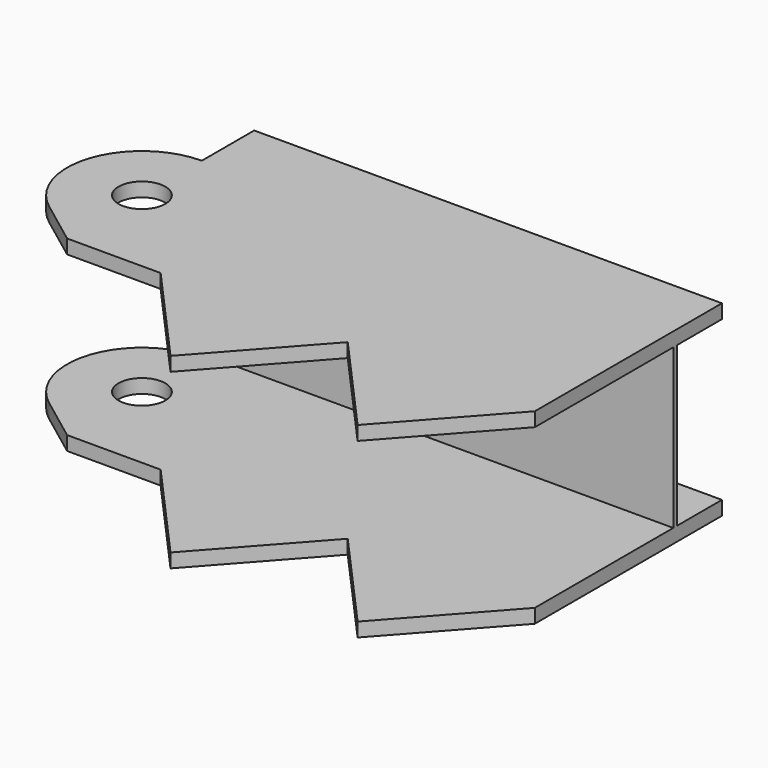
from build123d import *

# Parameters (mm, degrees)
F0_R      = 5
F1_DEPTH  = 40
F5_W      = 100
F5_H      = 3
F6_DEPTH  = 28
F7_W      = 100
F7_H      = 3
F8_DEPTH  = 10
F7_H_2    = 40
F13_DEPTH = 116.001
F14_W     = 100
F14_H     = 3
F15_DEPTH = 10
F18_DEPTH = 40.001
F19_SIZE  = 2
F20_SIZE  = 2
F21_W     = 67.4691606036
F21_H     = 7
F22_DEPTH = 116.001


with BuildPart() as f1:
    # F0 (on Top) → F1 (new body)
    with BuildSketch(Plane.XY):
        with BuildLine():
            Line((21.777506699, 52.6698508731), (21.777506699, 56.6698508731))
            Line((21.777506699, 56.6698508731), (-78.222493301, 56.6698508731))
            Line((-78.222493301, 56.6698508731), (-78.222493301, 16.6698508731))
            Line((-78.222493301, 16.6698508731), (-58.222493301, -5.6908289019))
            Line((-58.222493301, -5.6908289019), (-38.222493301, 16.6698508731))
            Line((-38.222493301, 16.6698508731), (-18.222493301, -5.6908289019))
            Line((-18.222493301, -5.6908289019), (1.777506699, 16.6698508731))
            Line((1.777506699, 16.6698508731), (21.777506699, 16.6698508731))
            Line((21.777506699, 16.6698508731), (31.377506699, 23.8698508731))
            ThreePointArc((31.377506699, 23.8698508731), (36.9564394679, 41.7294951294), (21.777506699, 52.6698508731))
        make_face()
        with Locations((21.777506699, 36.6698508731)):
            Circle(F0_R, mode=Mode.SUBTRACT)
    extrude(amount=F1_DEPTH)


with BuildPart() as f2_1:
    # F2: copy of F1
    add(f1.part.moved(Location((0, 0, 28))))


with BuildPart() as f4_1:
    # F4: copy of F1
    add(f1.part.moved(Location((0, 0, 34))))


with BuildPart() as f6:
    # F5 (on face) → F6 (new body)
    with BuildSketch(Plane.XY.offset(40)):
        with Locations((-28.222493301, 55.1698508731)):
            Rectangle(F5_W, F5_H)
    extrude(amount=F6_DEPTH)


with BuildPart() as f8:
    # F7 (on face) → F8 (new body)
    with BuildSketch(Plane(origin=(0, 56.6698508731, 0), x_dir=(-1, 0, 0), z_dir=(0, 1, 0))):
        with Locations((28.222493301, 69.5)):
            Rectangle(F7_W, F7_H)
    extrude(amount=F8_DEPTH)


with BuildPart() as f8b:
    # F7 (on face) → F8, piece 2 (new body)
    with BuildSketch(Plane(origin=(0, 56.6698508731, 0), x_dir=(-1, 0, 0), z_dir=(0, 1, 0))):
        with Locations((28.222493301, 20)):
            Rectangle(F7_W, F7_H_2)
    extrude(amount=F8_DEPTH)


with BuildPart() as f1_1:
    add(f1.part)

    # F12 (on face) → F13 (cut, through all)
    with BuildSketch(Plane(origin=(-78.222493301, 0, 0), x_dir=(0, -1, 0), z_dir=(-1, 0, 0))):
        Polygon((15.5293103307, 30), (-53.6698508731, 30), (-53.6698508731, 3), (13.7041052803, 3), align=None)
    extrude(amount=-F13_DEPTH, mode=Mode.SUBTRACT)

    # F14 (on face) → F15 (join)
    with BuildSketch(Plane(origin=(0, 56.6698508731, 0), x_dir=(-1, 0, 0), z_dir=(0, 1, 0))):
        with Locations((28.222493301, 1.5)):
            Rectangle(F14_W, F14_H)
        with Locations((28.222493301, 38.5)):
            Rectangle(F14_W, F14_H)
    extrude(amount=F15_DEPTH)

    # F16: F1 across face


with BuildPart() as f1_2:
    add(f1_1.part)
    add(f1_1.part.mirror(Plane(origin=(-78.222493301, 41.2061594964, 25.2897125567), x_dir=(0, -1, 0), z_dir=(-1, 0, 0))))

    # F17 (on face) → F18 (cut, through all)
    with BuildSketch(Plane.XY.offset(40)):
        Polygon((-78.222493301, 86.7001339793), (-78.222493301, 16.6698508731), (-78.222493301, -27.7220606804), (68.2113543153, -27.7220606804), (68.2113543153, 86.7001339793), align=None)
    extrude(amount=-F18_DEPTH, mode=Mode.SUBTRACT)

    # F19
    f19_edges = [f1_2.edges().sort_by_distance(p)[0] for p in [
        (-178.222493, 56.669851, 20),
    ]]
    chamfer(f19_edges, length=F19_SIZE)

    # F20
    f20_edges = [f1_2.edges().sort_by_distance(p)[0] for p in [
        (-78.222493, 56.669851, 20),
    ]]
    chamfer(f20_edges, length=F20_SIZE)

    # F21 (on face) → F22 (cut, through all)
    with BuildSketch(Plane.YZ.offset(-78.222493301)):
        with Locations((19.9352705713, 33.5)):
            Rectangle(F21_W, F21_H)
    extrude(amount=-F22_DEPTH, mode=Mode.SUBTRACT)


solid = f1_2.part
